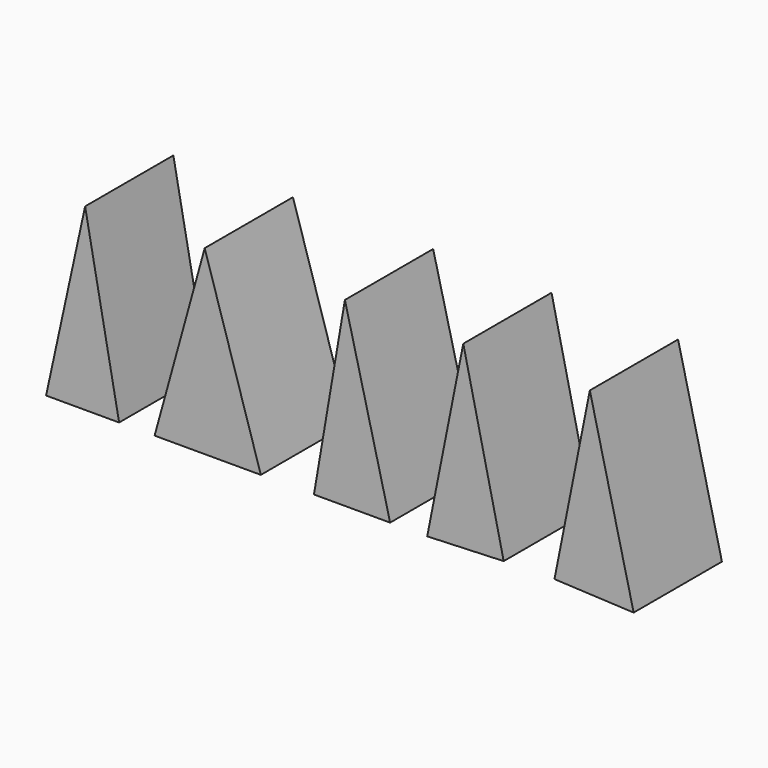
from build123d import *

# Parameters (mm, degrees)
F1_DEPTH = 25.4


with BuildPart() as f1:
    # F0 (on Front) → F1 (new body)
    with BuildSketch(Plane.XZ):
        Polygon((-59.815664, 41.275803), (-68.802767, 0), (-51.988188, 0), align=None)
        Polygon((-32.278541, 41.761022), (-43.816764, 0), (-19.355733, 0), align=None)
        Polygon((0, 41.761022), (-7.125214, 0), (10.412886, 0), align=None)
        Polygon((27.258692, 41.761022), (18.95117, 0), (36.561486, 0.699808), align=None)
        Polygon((56.395434, 41.761022), (48.258256, 0.856305), (66.488653, 0), align=None)
    extrude(amount=-F1_DEPTH)


solid = f1.part
